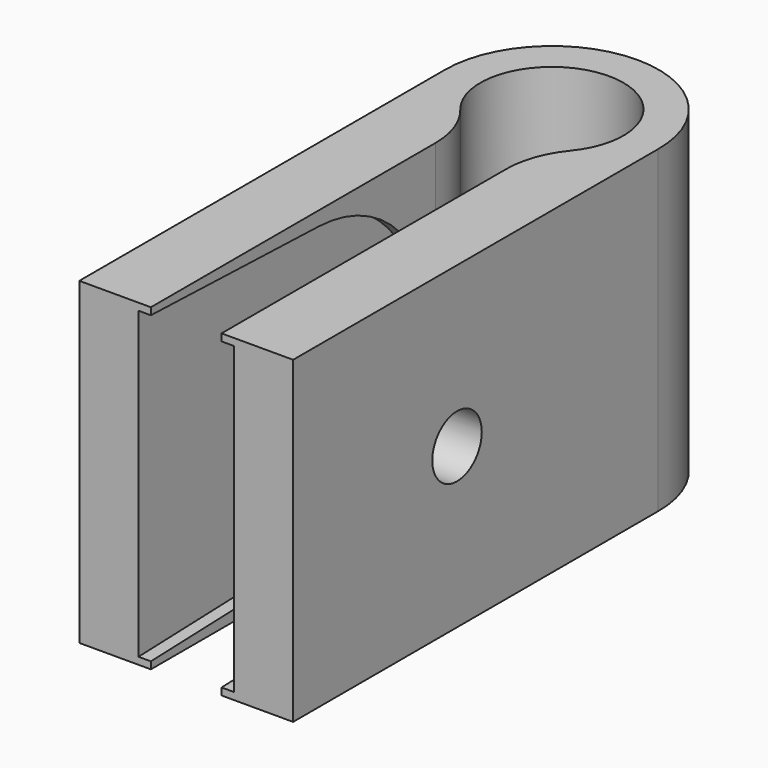
from build123d import *

# Parameters (mm, degrees)
PAD_DEPTH            = 9.020639
POCKET_DEPTH         = 2.7
SKETCH003_R          = 1.75
POCKET001_DEPTH      = 6.051
POCKET001_DEPTH_BACK = -6.051
FILLET_R             = 5


with BuildPart() as part:
    # Sketch001 → Pad (new body, symmetric)
    with BuildSketch(Plane.XY):
        with BuildLine():
            ThreePointArc((2, 10.753118), (0, 18.324836), (-2, 10.753118))
            Line((-2, 10.753118), (-2, -11.595564))
            Line((-6.0498, -11.595564), (-2, -11.595564))
            Line((-6.0498, 14.225598), (-6.0498, -11.595564))
            ThreePointArc((6.049634, 14.208289), (0.008655, 20.32483), (-6.0498, 14.225598))
            Line((6.049634, 14.208289), (6.049634, -11.595564))
            Line((2, -11.595564), (6.049634, -11.595564))
            Line((2, 10.753118), (2, -11.595564))
        make_face()
    extrude(amount=PAD_DEPTH, both=True)

    # Sketch002 → Pocket (cut, symmetric)
    with BuildSketch(Plane.YZ):
        with BuildLine():
            ThreePointArc((0.277273, -8.220161), (8.224836, 1e-06), (0.277271, 8.220161))
            Line((-11.595564, 8.620639), (0.277271, 8.220161))
            Line((-11.595564, 8.620639), (-11.595564, -8.620639))
            Line((-11.595564, -8.620639), (0.277273, -8.220161))
        make_face()
    extrude(amount=POCKET_DEPTH, both=True, mode=Mode.SUBTRACT)

    # Sketch003 → Pocket001 (cut, two sides)
    with BuildSketch(Plane.YZ) as pocket001_sk:
        Circle(SKETCH003_R)
    extrude(amount=-POCKET001_DEPTH, mode=Mode.SUBTRACT)
    extrude(pocket001_sk.sketch, amount=-POCKET001_DEPTH_BACK, mode=Mode.SUBTRACT)

    # Fillet
    fillet_edges = [part.edges().sort_by_distance(p)[0] for p in [
        (2, 10.753118, 0),
        (-2, 10.753118, 0),
    ]]
    fillet(fillet_edges, radius=FILLET_R)


solid = part.part
